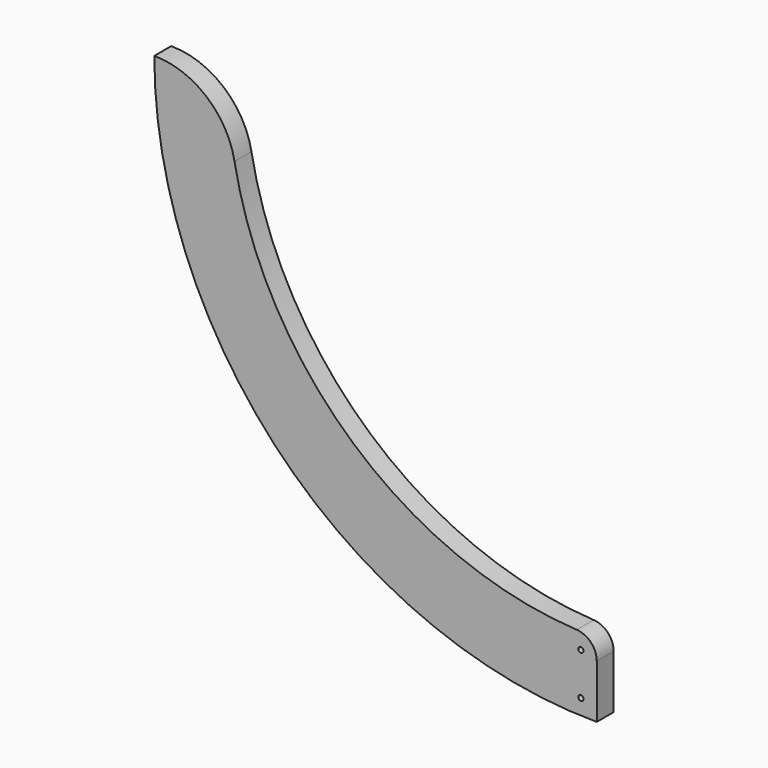
from build123d import *

# Parameters (mm, degrees)
F0_R     = 2.5
F1_DEPTH = 20


with BuildPart() as f1:
    # F0 (on Front) → F1 (new body)
    with BuildSketch(Plane.XZ):
        with BuildLine():
            ThreePointArc((-342.23584, 354.923618), (-368.707917, 400.166928), (-418, 418))
            ThreePointArc((-418, 418), (-295.570635, 122.429365), (0, 0))
            Line((0, 0), (0, 50.54388))
            ThreePointArc((0, 50.54388), (-5.478651, 64.29635), (-18.913043, 70.514321))
            ThreePointArc((-18.913043, 70.514321), (-229.846233, 156.705704), (-342.23584, 354.923618))
        make_face()
        with Locations((-15, 15)):
            Circle(F0_R, mode=Mode.SUBTRACT)
        with Locations((-15, 55)):
            Circle(F0_R, mode=Mode.SUBTRACT)
    extrude(amount=F1_DEPTH)


solid = f1.part
